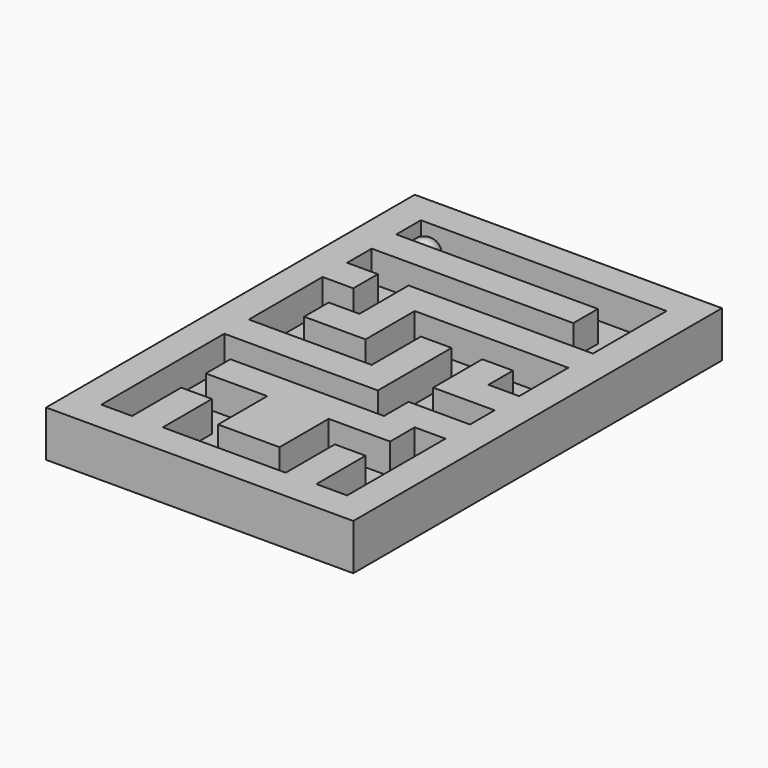
from build123d import *

# Parameters (mm, degrees)
SKETCH_W      = 100
SKETCH_H      = 150
PAD_DEPTH     = 5
SKETCH001_W   = 100
SKETCH001_H   = 150
SKETCH001_W_2 = 80
SKETCH001_H_2 = 130
PAD001_DEPTH  = 10
SKETCH002_W   = 65.635862
SKETCH002_H   = 10
SKETCH002_W_2 = 10
SKETCH002_H_2 = 20
PAD002_DEPTH  = 10
SKETCH003_R   = 7.243248
POCKET_DEPTH  = 5.001


with BuildPart() as obj1:
    # Sketch → Pad (new body)
    with BuildSketch(Plane.XY):
        with Locations((0, 5)):
            Rectangle(SKETCH_W, SKETCH_H)
    extrude(amount=PAD_DEPTH)

    # Sketch001 → Pad001 (new body)
    with BuildSketch(Plane.XY.offset(5)):
        with Locations((0, 5)):
            Rectangle(SKETCH001_W, SKETCH001_H)
        with Locations((0, 5)):
            Rectangle(SKETCH001_W_2, SKETCH001_H_2, mode=Mode.SUBTRACT)
    extrude(amount=PAD001_DEPTH)

    # Sketch002 → Pad002 (new body)
    with BuildSketch(Plane.XY.offset(5)):
        with Locations((-7.182069, 55)):
            Rectangle(SKETCH002_W, SKETCH002_H)
        Polygon((40, 40), (-20, 40), (-20, 20), (-30, 20), (-30, 10), (-20, 10), (-10, 10), (-10, 30), (40, 30), align=None)
        with Locations((-35, 35)):
            Rectangle(SKETCH002_W_2, SKETCH002_H)
        Polygon((-40, -10), (10, -10), (10, 0), (10, 20), (0, 20), (0, 0), (-40, 0), align=None)
        Polygon((20, 20), (30, 20), (30, 10), (40, 10), (40, 0), (30, 0), (20, 0), align=None)
        Polygon((40, -10), (20, -10), (20, -20), (-30, -20), (-30, -30), (-10, -30), (-10, -50), (10, -50), (10, -30), (30, -30), (30, -20), (40, -20), align=None)
        with Locations((-25, -50)):
            Rectangle(SKETCH002_W_2, SKETCH002_H_2)
        with Locations((25, -50)):
            Rectangle(SKETCH002_W_2, SKETCH002_H_2)
    extrude(amount=PAD002_DEPTH)

    # Sketch003 → Pocket (cut, through all)
    with BuildSketch(Plane.XY.offset(5)):
        with Locations((34.967426, -55.2094)):
            Circle(SKETCH003_R)
    extrude(amount=-POCKET_DEPTH, mode=Mode.SUBTRACT)


with BuildPart() as obj2:
    # Sphere → Sphere (revolve)
    with BuildSketch(Plane(origin=(-35, 65, 9), x_dir=(1, 0, 0), z_dir=(0, -1, 0))):
        with BuildLine():
            ThreePointArc((0, -4.5), (4.5, 0), (0, 4.5))
            Line((0, 4.5), (0, -4.5))
        make_face()
    revolve(axis=Axis((-35, 65, 9), (0, 0, 1)))


solid = Compound([obj1.part, obj2.part])
